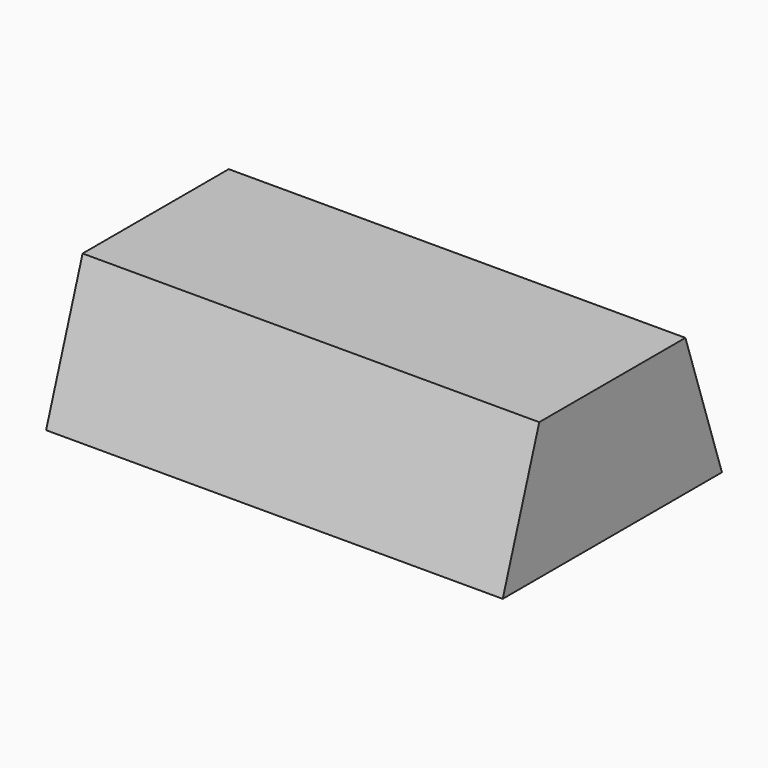
from build123d import *

# Parameters (mm, degrees)
PAD_DEPTH = 100


with BuildPart() as part:
    # Sketch → Pad (new body)
    with BuildSketch(Plane.YZ):
        Polygon((-30, 0), (-20, 30), (20, 30), (30, 0), align=None)
    extrude(amount=PAD_DEPTH)


solid = part.part
